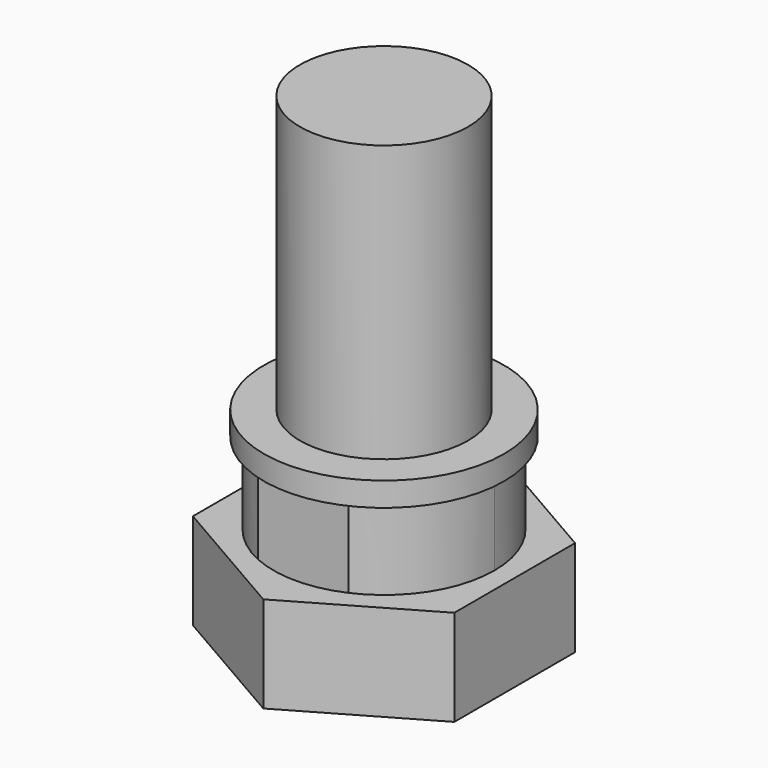
from build123d import *

# Parameters (mm, degrees)
F1_DEPTH = 7.4
F2_R     = 5
F3_DEPTH = 1
F4_R     = 3.5
F5_DEPTH = 11.5
F7_DEPTH = 4


with BuildPart() as f1:
    # F0 (on Top) → F1 (new body)
    with BuildSketch(Plane.XY):
        with BuildLine():
            ThreePointArc((1.876166, -4.2), (3.859428, -2.502962), (4.6, 0))
            ThreePointArc((4.6, 0), (3.859428, 2.502962), (1.876166, 4.2))
            Line((1.876166, 4.2), (-1.876166, 4.2))
            ThreePointArc((-1.876166, 4.2), (-4.6, 0), (-1.876166, -4.2))
            Line((-1.876166, -4.2), (1.876166, -4.2))
        make_face()
    extrude(amount=F1_DEPTH)

    # F2 (on face) → F3 (join)
    with BuildSketch(Plane.XY.offset(7.4)):
        Circle(F2_R)
        with BuildLine():
            ThreePointArc((-1.876166, -4.2), (-4.6, 0), (-1.876166, 4.2))
            Line((-1.876166, 4.2), (1.876166, 4.2))
            ThreePointArc((1.876166, 4.2), (4.6, 0), (1.876166, -4.2))
            Line((1.876166, -4.2), (-1.876166, -4.2))
        make_face(mode=Mode.SUBTRACT)
        with BuildLine():
            Line((1.876166, 4.2), (-1.876166, 4.2))
            ThreePointArc((-1.876166, 4.2), (-4.6, 0), (-1.876166, -4.2))
            Line((-1.876166, -4.2), (1.876166, -4.2))
            ThreePointArc((1.876166, -4.2), (4.6, 0), (1.876166, 4.2))
        make_face()
    extrude(amount=F3_DEPTH)

    # F4 (on face) → F5 (join)
    with BuildSketch(Plane.XY.offset(8.4)):
        Circle(F4_R)
    extrude(amount=F5_DEPTH)


with BuildPart() as f7:
    # F6 (on face) → F7 (new body)
    with BuildSketch(Plane.XY):
        Polygon((-5.440447, 3.141043), (-5.440447, -3.141043), (0, -6.282087), (5.440447, -3.141043), (5.440447, 3.141043), (0, 6.282087), align=None)
        with BuildLine():
            ThreePointArc((1.876166, 4.2), (3.859428, 2.502962), (4.6, 0))
            ThreePointArc((4.6, 0), (3.859428, -2.502962), (1.876166, -4.2))
            ThreePointArc((1.876166, -4.2), (0, -4.6), (-1.876166, -4.2))
            ThreePointArc((-1.876166, -4.2), (-4.6, 0), (-1.876166, 4.2))
            ThreePointArc((-1.876166, 4.2), (0, 4.6), (1.876166, 4.2))
        make_face(mode=Mode.SUBTRACT)
    extrude(amount=F7_DEPTH)


solid = Compound([f1.part, f7.part])
